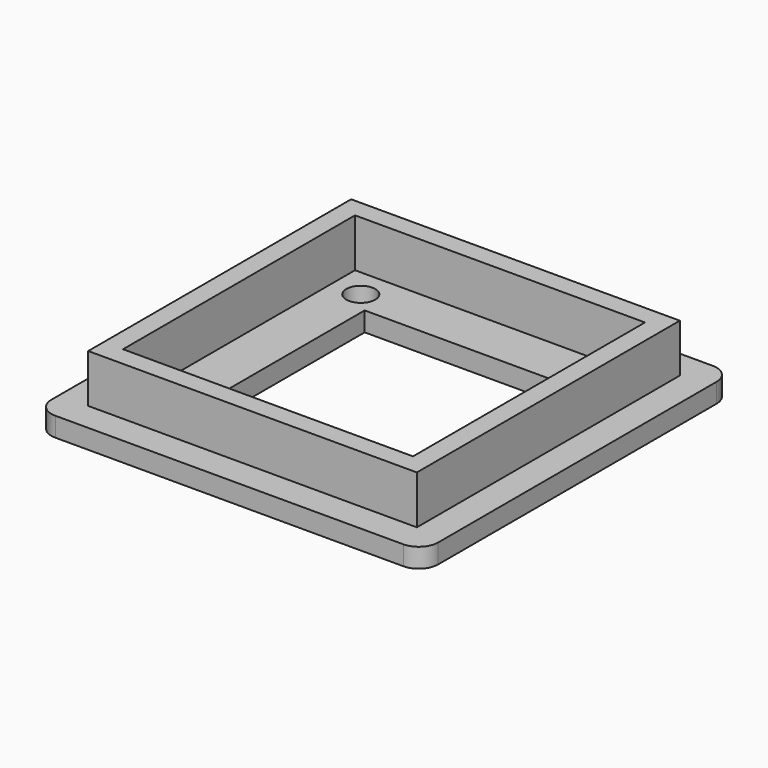
from build123d import *

# Parameters (mm, degrees)
SKETCH_W        = 40
SKETCH_H        = 40
PAD_DEPTH       = 2
SKETCH001_W     = 20
SKETCH001_H     = 20
POCKET_DEPTH    = 2
SKETCH002_W     = 34
SKETCH002_H     = 34
SKETCH002_W_2   = 30
SKETCH002_H_2   = 30
PAD001_DEPTH    = 5
SKETCH003_R     = 1.5
SKETCH003_R_2   = 1.6
POCKET001_DEPTH = 5
FILLET_R        = 2
FILLET001_R     = 2
FILLET002_R     = 2
FILLET003_R     = 2


with BuildPart() as part:
    # Sketch → Pad (new body)
    with BuildSketch(Plane.XY):
        with Locations((20, 20)):
            Rectangle(SKETCH_W, SKETCH_H)
    extrude(amount=PAD_DEPTH)

    # Sketch001 → Pocket (cut)
    with BuildSketch(Plane.XY.offset(2)):
        with Locations((20, 20)):
            Rectangle(SKETCH001_W, SKETCH001_H)
    extrude(amount=-POCKET_DEPTH, mode=Mode.SUBTRACT)

    # Sketch002 → Pad001 (new body)
    with BuildSketch(Plane.XY.offset(2)):
        with Locations((20, 20)):
            Rectangle(SKETCH002_W, SKETCH002_H)
        with Locations((20, 20)):
            Rectangle(SKETCH002_W_2, SKETCH002_H_2, mode=Mode.SUBTRACT)
    extrude(amount=PAD001_DEPTH)

    # Sketch003 → Pocket001 (cut)
    with BuildSketch(Plane.XY.offset(2)):
        with Locations((8, 32)):
            Circle(SKETCH003_R)
        with Locations((32, 32)):
            Circle(SKETCH003_R)
        with Locations((8, 8)):
            Circle(SKETCH003_R)
        with Locations((32, 8)):
            Circle(SKETCH003_R_2)
    extrude(amount=-POCKET001_DEPTH, mode=Mode.SUBTRACT)

    # Fillet
    fillet_edges = [part.edges().sort_by_distance(p)[0] for p in [
        (40, 0, 1),
    ]]
    fillet(fillet_edges, radius=FILLET_R)

    # Fillet001
    fillet001_edges = [part.edges().sort_by_distance(p)[0] for p in [
        (40, 40, 1),
    ]]
    fillet(fillet001_edges, radius=FILLET001_R)

    # Fillet002
    fillet002_edges = [part.edges().sort_by_distance(p)[0] for p in [
        (0, 40, 1),
    ]]
    fillet(fillet002_edges, radius=FILLET002_R)

    # Fillet003
    fillet003_edges = [part.edges().sort_by_distance(p)[0] for p in [
        (0, 0, 1),
    ]]
    fillet(fillet003_edges, radius=FILLET003_R)


solid = part.part
